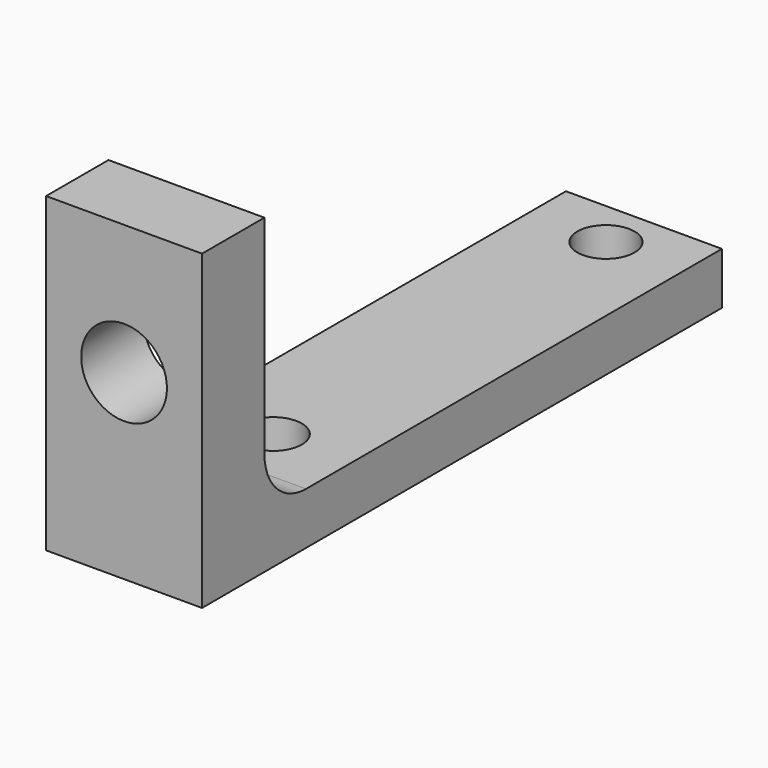
from build123d import *

# Parameters (mm, degrees)
SKETCH_W        = 6
SKETCH_H        = 25
PAD_DEPTH       = 2
SKETCH001_W     = 6
SKETCH001_H     = 3
PAD001_DEPTH    = 10
FILLET_R        = 2
SKETCH002_R     = 1.1
POCKET_DEPTH    = 5
SKETCH003_R     = 1.65
POCKET001_DEPTH = 5


with BuildPart() as part:
    # Sketch → Pad (new body)
    with BuildSketch(Plane.XY):
        with Locations((3, 12.5)):
            Rectangle(SKETCH_W, SKETCH_H)
    extrude(amount=PAD_DEPTH)

    # Sketch001 (on Face6 of Pad) → Pad001 (join)
    with BuildSketch(Plane.XY.offset(2)):
        with Locations((3, 1.5)):
            Rectangle(SKETCH001_W, SKETCH001_H)
    extrude(amount=PAD001_DEPTH)

    # Fillet
    fillet_edges = [part.edges().sort_by_distance(p)[0] for p in [
        (3, 3, 2),
    ]]
    fillet(fillet_edges, radius=FILLET_R)

    # Sketch002 (on Face2 of Fillet) → Pocket (cut)
    with BuildSketch(Plane.XY.offset(2)):
        with Locations((3, 23.17265)):
            Circle(SKETCH002_R)
        with Locations((3, 7.17265)):
            Circle(SKETCH002_R)
    extrude(amount=-POCKET_DEPTH, mode=Mode.SUBTRACT)

    # Sketch003 (on Face13 of Pocket) → Pocket001 (cut)
    with BuildSketch(Plane.XZ):
        with Locations((3, 7)):
            Circle(SKETCH003_R)
    extrude(amount=-POCKET001_DEPTH, mode=Mode.SUBTRACT)


solid = part.part
